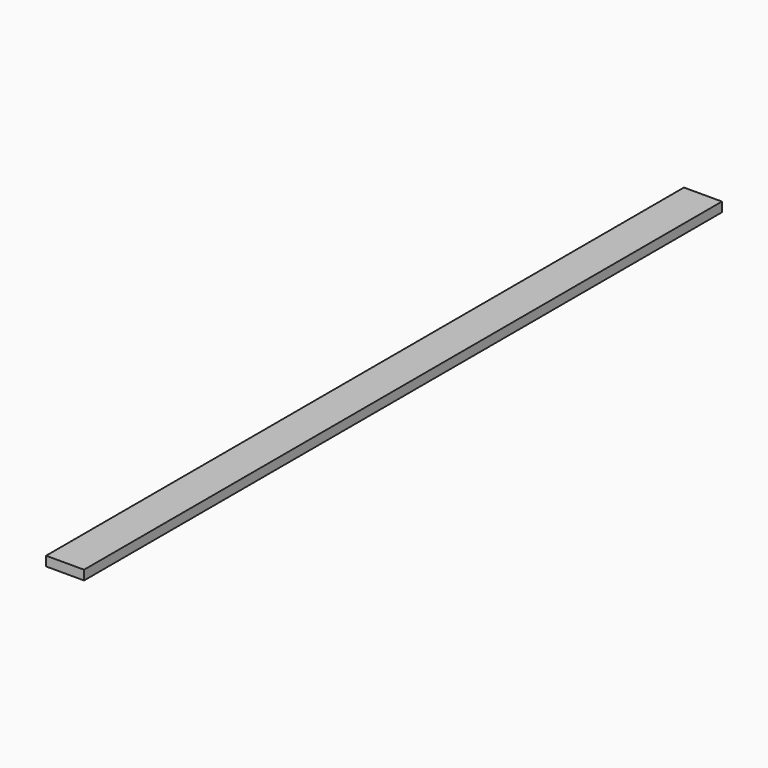
from build123d import *

# Parameters (mm, degrees)
F0_W      = 100
F0_H      = 2000
F1_DEPTH  = 50
F1_FACE_W = 100
F1_FACE_H = 50
F2_DEPTH  = 100
F2_FACE_W = 100
F2_FACE_H = 2100
F3_DEPTH  = 25


with BuildPart() as f1:
    # F0 (on Top) → F1 (new body)
    with BuildSketch(Plane.XY):
        Rectangle(F0_W, F0_H)
    extrude(amount=F1_DEPTH)

    # F1_face (on face) → F2 (join)
    with BuildSketch(Plane(origin=(0, -1000, 25), x_dir=(1, 0, 0), z_dir=(0, -1, 0))):
        Rectangle(F1_FACE_W, F1_FACE_H)
    extrude(amount=F2_DEPTH)

    # F2_face (on face) → F3 (cut)
    with BuildSketch(Plane(origin=(0, -50, 50), x_dir=(1, 0, 0), z_dir=(0, 0, 1))):
        Rectangle(F2_FACE_W, F2_FACE_H)
    extrude(amount=-F3_DEPTH, mode=Mode.SUBTRACT)


solid = f1.part
